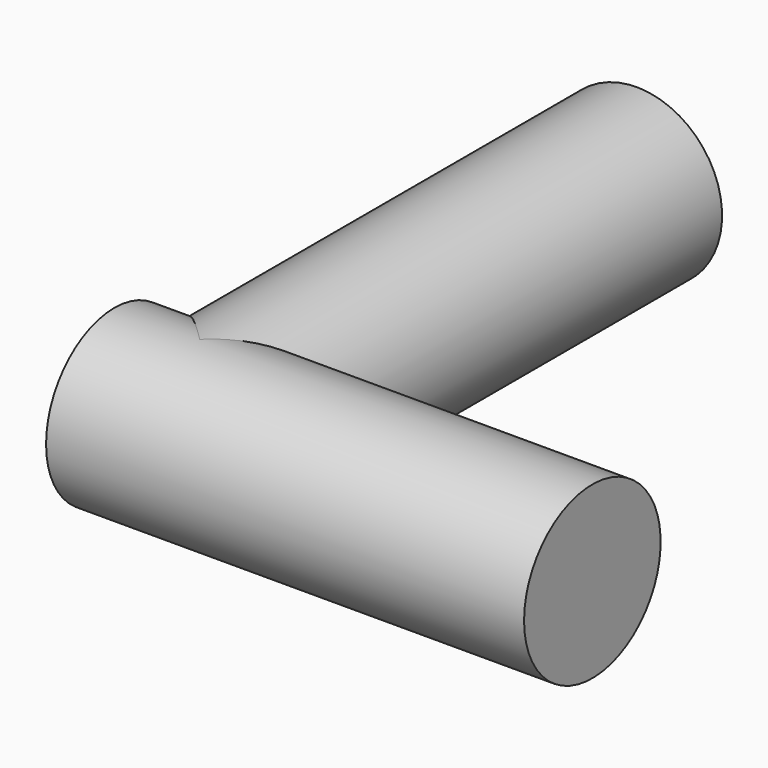
from build123d import *

# Parameters (mm, degrees)
F0_W = 17.78
F0_H = 3.175
F1_W = 3.175
F1_H = 20.32


with BuildPart() as f2:
    # F0 (on Top) → F2 (revolve)
    with BuildSketch(Plane.XY):
        with Locations((0.740834, -1.5875)):
            Rectangle(F0_W, F0_H)
    revolve(axis=Axis((0.740834, 0, 0), (1, 0, 0)))

    # F1 (on Top) → F3 (revolve)
    with BuildSketch(Plane.XY):
        with Locations((-6.561666, 10.16)):
            Rectangle(F1_W, F1_H)
    revolve(axis=Axis((-4.974166, 10.16, 0), (0, 1, 0)))


solid = f2.part
